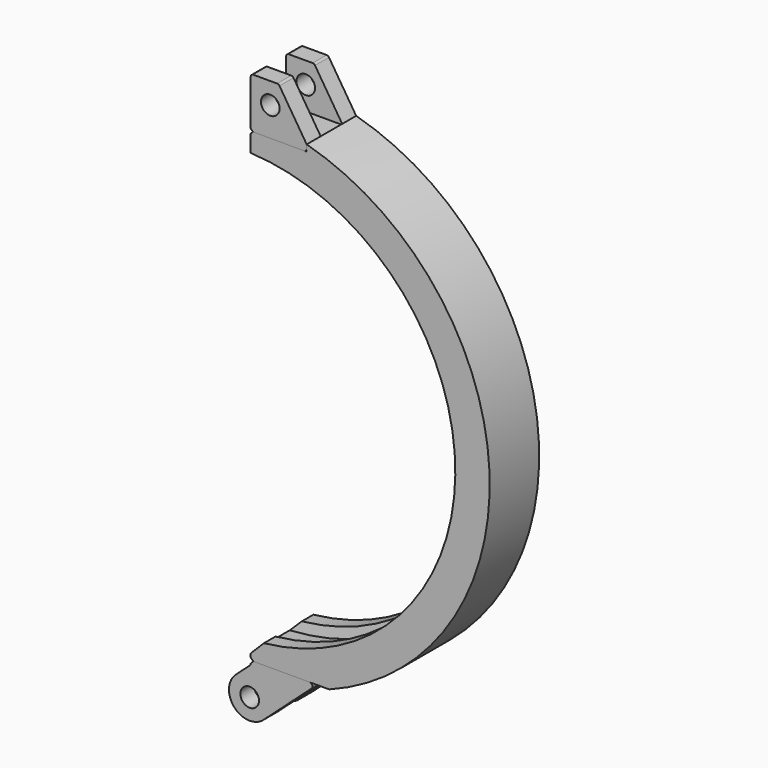
from build123d import *

# Parameters (mm, degrees)
F1_DEPTH  = 70.104
F4_W      = 109.6982747611
F4_H      = 35.960230231
F4_W_2    = 177.7120623738
F4_H_2    = 46.1589694023
F5_DEPTH  = 70.1050001
F6_W      = 60.452
F6_H      = 51.054
F7_DEPTH  = 59.944
F9_DEPTH  = 270.9809
F10_R     = 20.955
F11_DEPTH = 2.54
F13_R     = 10.541
F15_DEPTH = 70.104
F17_DEPTH = 70.1050001
F14_R     = 10.541
F19_DEPTH = 15.621
F20_R     = 3.175
F21_R     = 10.541
F22_DEPTH = 70.104
F23_SIZE  = 2.54
F24_R     = 3.175
F25_W     = 30.48
F25_H     = 50.8
F26_DEPTH = 270.9809
F27_SIZE  = 2.54


with BuildPart() as f1:
    # F0 (on Front) → F1 (new body)
    with BuildSketch(Plane.XZ):
        with BuildLine():
            Line((11.0236, -242.7516324276), (11.0236, -281.7879597415))
            ThreePointArc((11.0236, -281.7879597415), (282.0035, 0), (11.0236, 281.7879597415))
            Line((11.0236, 281.7879597415), (11.0236, 242.7516324276))
            ThreePointArc((11.0236, 242.7516324276), (243.0018, 0), (11.0236, -242.7516324276))
        make_face()
    extrude(amount=F1_DEPTH)

    # F2 (on face) → F3 (revolve, cut)
    with BuildSketch(Plane(origin=(11.0236, 0, 0), x_dir=(0, -1, 0), z_dir=(-1, 0, 0))):
        Polygon((18.52295, 253.6825), (16.3982045821, 242.7516324276), (53.7057954179, 242.7516324276), (51.58105, 253.6825), align=None)
    revolve(axis=Axis((0, -70.104, 0), (0, 1, 0)), mode=Mode.SUBTRACT)

    # F4 (on face) → F5 (cut, through all)
    with BuildSketch(Plane.XZ.offset(70.104)):
        with Locations((19.6744626195, 282.6227151155)):
            Rectangle(F4_W, F4_H)
        with Locations((63.4474558756, -286.7314847012)):
            Rectangle(F4_W_2, F4_H_2)
    extrude(amount=-F5_DEPTH, mode=Mode.SUBTRACT)

    # F16 (on face) → F17 (cut, through all)
    with BuildSketch(Plane.XZ.offset(70.104)):
        with BuildLine():
            Line((11.0236, -242.7516324276), (11.0236, -256.5918267325))
            Line((11.0236, -256.5918267325), (26.0096, -241.6058267325))
            ThreePointArc((26.0096, -241.6058267325), (18.5254606753, -242.2946184091), (11.0236, -242.7516324276))
        make_face()
        Polygon((11.0236, -263.652), (13.961667458, -263.652), (11.0236, -260.713932542), align=None)
    extrude(amount=-F17_DEPTH, mode=Mode.SUBTRACT)

    # F27
    f27_edges = [f1.edges().sort_by_distance(p)[0] for p in [
        (11.0236, -35.052, 264.6426),
    ]]
    chamfer(f27_edges, length=F27_SIZE)


with BuildPart() as f7:
    # F6 (on face) → F7 (new body)
    with BuildSketch(Plane(origin=(11.0236, 0, 0), x_dir=(0, -1, 0), z_dir=(-1, 0, 0))):
        with Locations((35.052, 290.1696)):
            Rectangle(F6_W, F6_H)
    extrude(amount=-F7_DEPTH)

    # F8 (on face) → F9 (cut, through all)
    with BuildSketch(Plane(origin=(11.0236, 0, 0), x_dir=(0, -1, 0), z_dir=(-1, 0, 0))):
        with BuildLine():
            Line((21.59, 315.6966), (21.59, 299.974))
            ThreePointArc((21.59, 299.974), (35.052, 286.512), (48.514, 299.974))
            Line((48.514, 299.974), (48.514, 315.6966))
            Line((48.514, 315.6966), (21.59, 315.6966))
        make_face()
    extrude(amount=-F9_DEPTH, mode=Mode.SUBTRACT)

    # F10 (on face) → F11 (cut)
    with BuildSketch(Plane.YZ.offset(70.9676)):
        with Locations((-35.052, 299.974)):
            Circle(F10_R)
    extrude(amount=-F11_DEPTH, mode=Mode.SUBTRACT)


with BuildPart() as f15:
    # F13 (on face) → F15 (new body)
    with BuildSketch(Plane.XZ.offset(70.104)):
        with BuildLine():
            Line((25.6272235964, -318.1961876746), (78.3060048335, -270.764))
            Line((78.3060048335, -270.764), (86.204681039, -263.652))
            Line((86.204681039, -263.652), (13.961667458, -263.652))
            Line((13.961667458, -263.652), (11.0236, -266.590067458))
            Line((11.0236, -266.590067458), (11.0236, -268.114067458))
            Line((11.0236, -268.114067458), (-5.8152235964, -283.2758123254))
            ThreePointArc((-5.8152235964, -283.2758123254), (-7.5541876746, -316.4572235964), (25.6272235964, -318.1961876746))
        make_face()
        with Locations((9.906, -300.736)):
            Circle(F13_R, mode=Mode.SUBTRACT)
    extrude(amount=-F15_DEPTH)

    # F14 (on offset) → F19 (cut, symmetric)
    with BuildSketch(Plane.XZ.offset(35.052)):
        with BuildLine():
            Line((25.6272235964, -318.1961876746), (78.3060048335, -270.764))
            Line((78.3060048335, -270.764), (11.0236, -270.764))
            Line((11.0236, -270.764), (8.0805517554, -270.764))
            Line((8.0805517554, -270.764), (-5.8152235964, -283.2758123254))
            ThreePointArc((-5.8152235964, -283.2758123254), (-7.5541876746, -316.4572235964), (25.6272235964, -318.1961876746))
        make_face()
        with Locations((9.906, -300.736)):
            Circle(F14_R, mode=Mode.SUBTRACT)
    extrude(amount=F19_DEPTH, both=True, mode=Mode.SUBTRACT)

    # F20
    f20_edges = [f15.edges().sort_by_distance(p)[0] for p in [
        (86.204681, -35.052, -263.652),
    ]]
    fillet(f20_edges, radius=F20_R)


with BuildPart() as f22:
    # F21 (on face) → F22 (new body, through all)
    with BuildSketch(Plane.XZ.offset(70.104)):
        with BuildLine():
            Line((11.0236, 318.6176), (11.0236, 264.6426))
            Line((11.0236, 264.6426), (74.5236, 264.6426))
            Line((74.5236, 264.6426), (74.5236, 271.9783209289))
            Line((74.5236, 271.9783209289), (43.7095790687, 320.3240922036))
            ThreePointArc((43.7095790687, 320.3240922036), (42.5590170153, 321.4013688254), (41.0321718605, 321.7926))
            Line((41.0321718605, 321.7926), (14.1986, 321.7926))
            ThreePointArc((14.1986, 321.7926), (11.9535359697, 320.8626640303), (11.0236, 318.6176))
        make_face()
        with Locations((33.2486, 297.6626)):
            Circle(F21_R, mode=Mode.SUBTRACT)
    extrude(amount=-F22_DEPTH)

    # F23
    f23_edges = [f22.edges().sort_by_distance(p)[0] for p in [
        (11.0236, -35.052, 264.6426),
    ]]
    chamfer(f23_edges, length=F23_SIZE)

    # F24
    f24_edges = [f22.edges().sort_by_distance(p)[0] for p in [
        (74.5236, -35.052, 264.6426),
    ]]
    fillet(f24_edges, radius=F24_R)

    # F25 (on face) → F26 (cut, through all)
    with BuildSketch(Plane(origin=(11.0236, 0, 0), x_dir=(0, -1, 0), z_dir=(-1, 0, 0))):
        with Locations((35.052, 296.3926)):
            Rectangle(F25_W, F25_H)
    extrude(amount=-F26_DEPTH, mode=Mode.SUBTRACT)


solid = Compound([f1.part, f15.part, f22.part])
